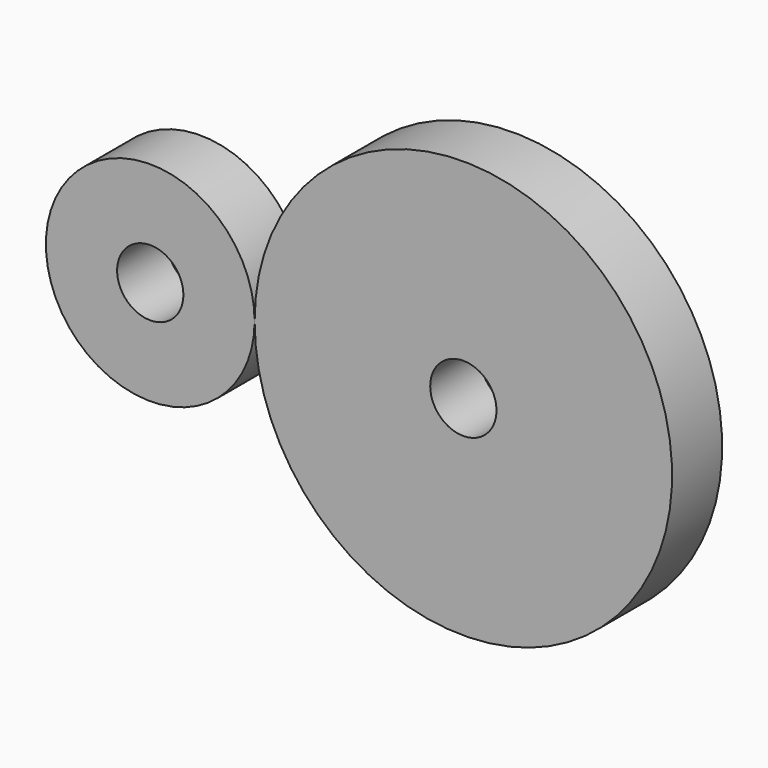
from build123d import *

# Parameters (mm, degrees)
F0_R     = 5
F0_R_2   = 1.5875
F1_DEPTH = 3


with BuildPart() as f1:
    # F0 (on Front) → F1 (new body)
    with BuildSketch(Plane.XZ):
        with BuildLine():
            ThreePointArc((25, 0), (15, 10), (5, 0))
            ThreePointArc((5, 0), (15, -10), (25, 0))
        make_face()
        with BuildLine():
            ThreePointArc((16.5875, 0), (15, -1.5875), (13.4125, 0))
            ThreePointArc((13.4125, 0), (15, 1.5875), (16.5875, 0))
        make_face(mode=Mode.SUBTRACT)
        Circle(F0_R)
        Circle(F0_R_2, mode=Mode.SUBTRACT)
    extrude(amount=F1_DEPTH)


solid = f1.part
